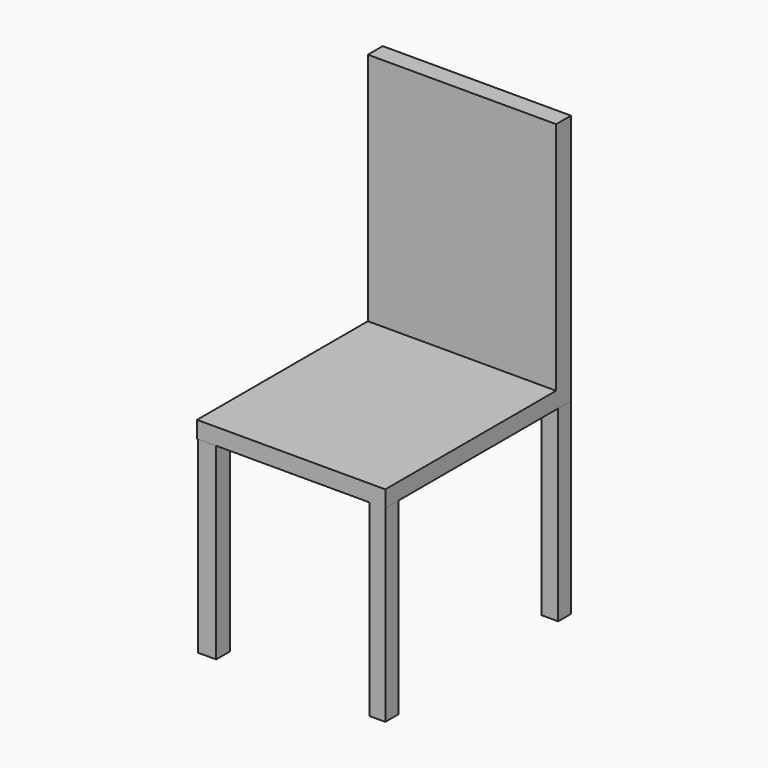
from build123d import *

# Parameters (mm, degrees)
F0_W      = 71.932797
F0_H      = 88.696804
F1_DEPTH  = 6.35
F2_W      = 7.010398
F2_H      = 6.705601
F3_DEPTH  = 71.882
F4_W      = 6.095998
F4_H      = 6.400802
F5_DEPTH  = 71.882
F6_W      = 6.096002
F6_H      = 5.791202
F7_DEPTH  = 71.374
F8_W      = 6.4008
F8_H      = 6.096002
F9_DEPTH  = 71.628
F10_W     = 71.932797
F10_H     = 7.088587
F11_DEPTH = 89.662


with BuildPart() as f1:
    # F0 (on Top) → F1 (new body)
    with BuildSketch(Plane.XY):
        with Locations((-1.9812, -0.1524)):
            Rectangle(F0_W, F0_H)
    extrude(amount=F1_DEPTH)

    # F2 (on Top) → F3 (join)
    with BuildSketch(Plane.XY):
        with Locations((-34.1376, -41.148001)):
            Rectangle(F2_W, F2_H)
    extrude(amount=-F3_DEPTH)

    # F4 (on Top) → F5 (join)
    with BuildSketch(Plane.XY):
        with Locations((30.937199, -41.300401)):
            Rectangle(F4_W, F4_H)
    extrude(amount=-F5_DEPTH)

    # F6 (on face) → F7 (join)
    with BuildSketch(Plane(origin=(0, 0, 0), x_dir=(1, 0, 0), z_dir=(0, 0, -1))):
        with Locations((-34.899598, -41.300401)):
            Rectangle(F6_W, F6_H)
    extrude(amount=F7_DEPTH)

    # F8 (on face) → F9 (join)
    with BuildSketch(Plane(origin=(0, 0, 0), x_dir=(1, 0, 0), z_dir=(0, 0, -1))):
        with Locations((30.784798, -41.148001)):
            Rectangle(F8_W, F8_H)
    extrude(amount=F9_DEPTH)

    # F10 (on face) → F11 (join)
    with BuildSketch(Plane.XY.offset(6.35)):
        with Locations((-1.9812, 40.651708)):
            Rectangle(F10_W, F10_H)
    extrude(amount=F11_DEPTH)


solid = f1.part
